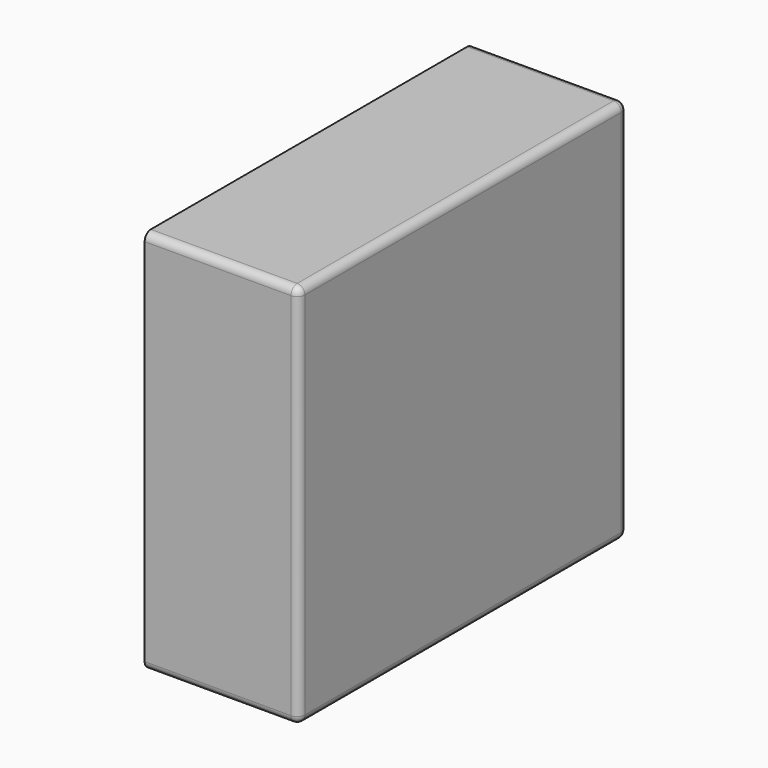
from build123d import *

# Parameters (mm, degrees)
BOX025_W     = 0.6
BOX025_H     = 1.6
BOX025_DEPTH = 1.5
FILLET031_R  = 0.03


with BuildPart() as fillet031:
    # Box025 → Box025 (new body)
    with BuildSketch(Plane.XY):
        with Locations((0.3, 0.8)):
            Rectangle(BOX025_W, BOX025_H)
    extrude(amount=BOX025_DEPTH)

    # Fillet031
    fillet031_edges = [fillet031.edges().sort_by_distance(p)[0] for p in [
        (0, 0, 0.75),
        (0, 0.8, 1.5),
        (0, 1.6, 0.75),
        (0, 0.8, 0),
        (0.3, 0, 0),
        (0.3, 0, 1.5),
        (0.3, 1.6, 0),
        (0.3, 1.6, 1.5),
    ]]
    fillet(fillet031_edges, radius=FILLET031_R)


with BuildPart() as part_mirroring021:
    # Part__Mirroring021: instance of Fillet031
    add(fillet031.part.mirror(Plane(origin=(1.6, 0, 0), x_dir=(0, -1, 0), z_dir=(1, 0, 0))))


solid = part_mirroring021.part
